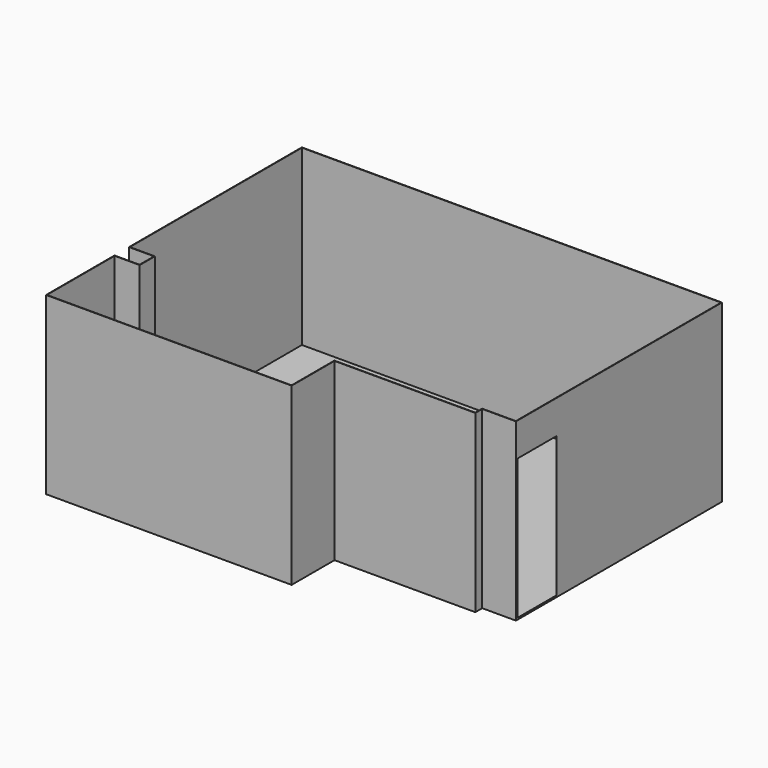
from build123d import *

# Parameters (mm, degrees)
F1_DEPTH = 2552.7
F3_DEPTH = 25.4
F4_W     = 723.9
F4_H     = 2060.575
F5_DEPTH = 6.35


with BuildPart() as f1:
    # F0 (on Top) → F1 (new body)
    with BuildSketch(Plane.XY):
        Polygon((6168.39, 908.05), (6168.39, 4692.65), (-6.35, 4692.65), (-6.35, 1517.65), (361.95, 1517.65), (361.95, 1250.95), (-6.35, 1250.95), (-6.35, -6.35), (3602.99, -6.35), (3602.99, 781.05), (5673.09, 781.05), (5673.09, 908.05), align=None)
        Polygon((3596.64, 0), (0, 0), (0, 1244.6), (368.3, 1244.6), (368.3, 1524), (0, 1524), (0, 4686.3), (6162.04, 4686.3), (6162.04, 914.4), (5666.74, 914.4), (5666.74, 787.4), (3596.64, 787.4), align=None, mode=Mode.SUBTRACT)
    extrude(amount=F1_DEPTH)

    # F2 (on face) → F3 (join)
    with BuildSketch(Plane(origin=(0, 0, 0), x_dir=(1, 0, 0), z_dir=(0, 0, -1))):
        Polygon((-6.35, -4692.65), (6168.39, -4692.65), (6168.39, -908.05), (5673.09, -908.05), (5673.09, -781.05), (3602.99, -781.05), (3602.99, 6.35), (-6.35, 6.35), (-6.35, -1250.95), (361.95, -1250.95), (361.95, -1517.65), (-6.35, -1517.65), align=None)
    extrude(amount=F3_DEPTH)

    # F4 (on face) → F5 (cut, through all)
    with BuildSketch(Plane.YZ.offset(6168.39)):
        with Locations((1295.4, 1030.2875)):
            Rectangle(F4_W, F4_H)
    extrude(amount=-F5_DEPTH, mode=Mode.SUBTRACT)


solid = f1.part
